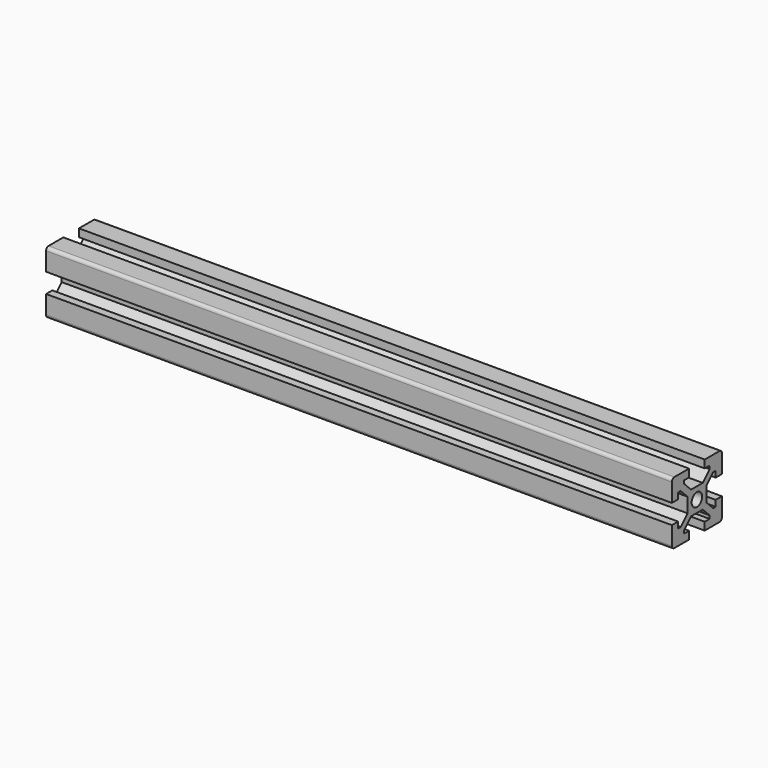
from build123d import *

# Parameters (mm, degrees)
PAD_DEPTH          = 200
POCKET_DEPTH       = 603.981198
POLARPATTERN_COUNT = 4
SKETCH002_R        = 2.1
POCKET001_DEPTH    = 200.001


with BuildPart() as part:
    # Sketch → Pad (new body)
    with BuildSketch(Plane.YZ):
        with BuildLine():
            Line((-9, 10), (9, 10))
            ThreePointArc((10, 9), (9.707107, 9.707107), (9, 10))
            Line((10, 9), (10, -9))
            ThreePointArc((9, -10), (9.707107, -9.707107), (10, -9))
            Line((9, -10), (-9, -10))
            ThreePointArc((-10, -9), (-9.707107, -9.707107), (-9, -10))
            Line((-10, -9), (-10, 9))
            ThreePointArc((-9, 10), (-9.707107, 9.707107), (-10, 9))
        make_face()
    extrude(amount=PAD_DEPTH)

    # Sketch001 (on Face10 of Pad) → Pocket (cut, through all)
    with BuildSketch(Plane.YZ.offset(200)):
        Polygon((-3.125, 10), (3.125, 10), (3.125, 7.5), (5.085786, 7.5), (5.085786, 6.5), (2.335786, 3.75), (-2.335786, 3.75), (-5.085786, 6.5), (-5.085786, 7.5), (-3.125, 7.5), align=None)
    pocket = extrude(amount=-POCKET_DEPTH, mode=Mode.SUBTRACT)

    # PolarPattern: Pocket ×4 about axis
    polarpattern_axis = Axis((200, 0, 0), (1, 0, 0))
    for i in range(1, POLARPATTERN_COUNT):
        add(pocket.rotate(polarpattern_axis, i * 360 / POLARPATTERN_COUNT), mode=Mode.SUBTRACT)

    # Sketch002 (on Face4 of PolarPattern) → Pocket001 (cut, through all)
    with BuildSketch(Plane.YZ.offset(200)):
        Circle(SKETCH002_R)
    extrude(amount=-POCKET001_DEPTH, mode=Mode.SUBTRACT)


with BuildPart() as part_1:
    # Body placement: moved
    add(part.part.moved(Location((-100, 0, 0))))


with BuildPart() as part_2:
    # Clone placement: moved
    add(part_1.part.moved(Location((100, 0, 0))))


with BuildPart() as part_3:
    # Body001 placement: moved
    add(part_2.part.moved(Location((-100, 0, -76))))


solid = part_3.part
